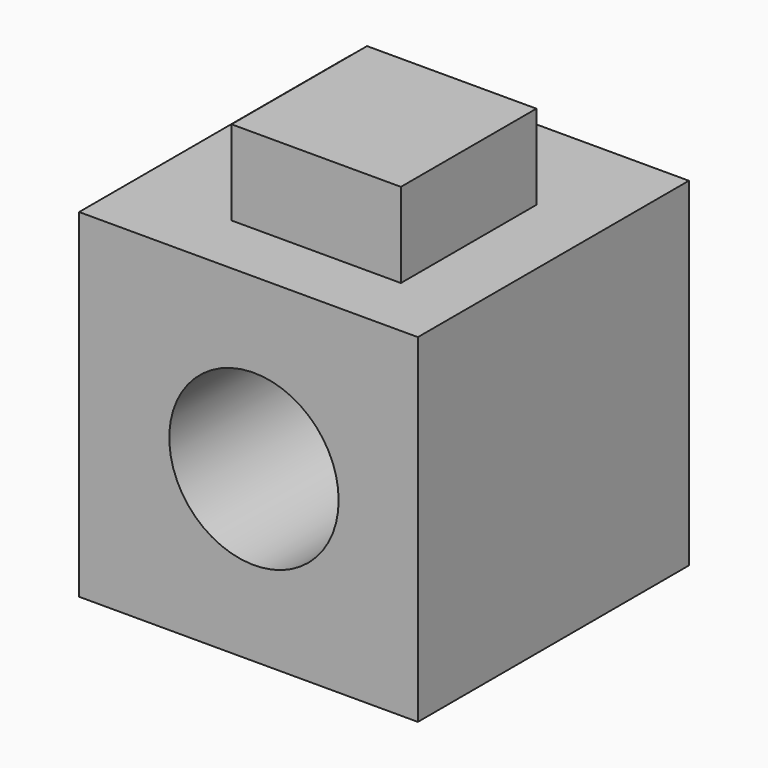
from build123d import *

# Parameters (mm, degrees)
F0_W     = 50.8
F0_H     = 50.8
F0_R     = 12.7
F1_DEPTH = 50.8
F2_W     = 25.4
F2_H     = 25.4
F3_DEPTH = 12.7


with BuildPart() as f1:
    # F0 (on Front) → F1 (new body)
    with BuildSketch(Plane.XZ):
        with Locations((-10.458374, 5.517997)):
            Rectangle(F0_W, F0_H)
        with Locations((-9.639759, 5.517997)):
            Circle(F0_R, mode=Mode.SUBTRACT)
    extrude(amount=F1_DEPTH)

    # F2 (on face) → F3 (join)
    with BuildSketch(Plane.XY.offset(30.917997)):
        with Locations((-7.880119, -28.630468)):
            Rectangle(F2_W, F2_H)
    extrude(amount=F3_DEPTH)


solid = f1.part
